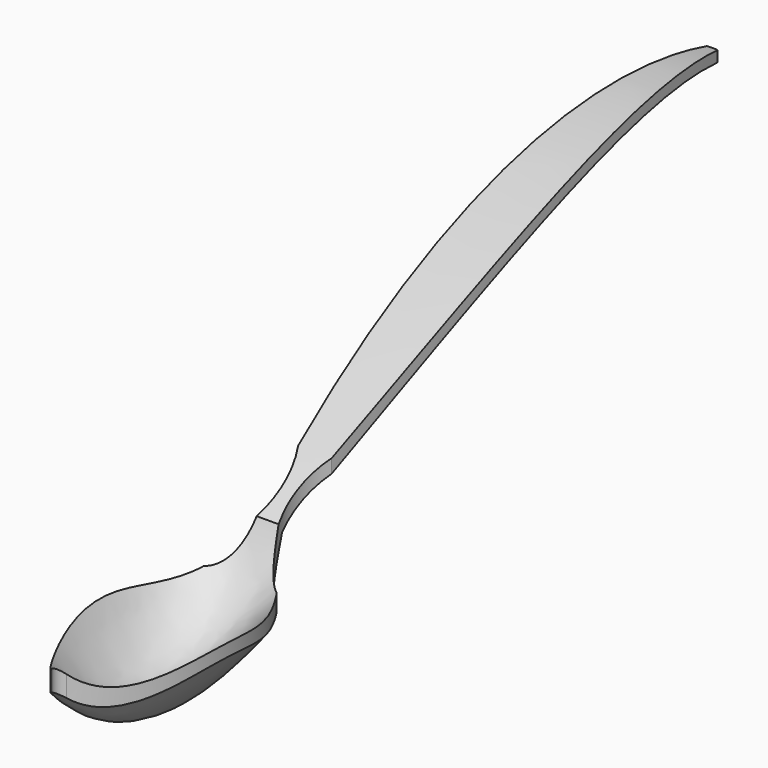
from build123d import *

# Parameters (mm, degrees)
EXTRUDE003_DEPTH = 80


with BuildPart() as extrude003:
    # Sketch005 → Extrude003 (new body)
    with BuildSketch(Plane.XY.offset(56)):
        with BuildLine():
            ThreePointArc((-1.257248, 126.846052), (-6.630881, 69.563727), (-3.880743, 12.095671))
            ThreePointArc((-8.430109, -9.471528), (-1.966283, 0.428417), (-3.880743, 12.095671))
            ThreePointArc((-8.430109, -9.471528), (-14.013962, -36.760649), (-1.716067, -61.753395))
            ThreePointArc((-1.716067, -61.753395), (0, -62.415289), (1.716067, -61.753395))
            ThreePointArc((1.716067, -61.753395), (14.013962, -36.760649), (8.430109, -9.471528))
            ThreePointArc((3.880743, 12.095671), (1.97472, 0.430197), (8.430109, -9.471528))
            ThreePointArc((3.880743, 12.095671), (6.649694, 69.564157), (1.257248, 126.846052))
            ThreePointArc((1.257248, 126.846052), (0, 126.965641), (-1.257248, 126.846052))
        make_face()
    extrude(amount=-EXTRUDE003_DEPTH)


with BuildPart() as common001:
    # Sketch002 → Loft section 0
    with BuildSketch(Plane.YZ.offset(-15)):
        with BuildLine():
            ThreePointArc((-56.485305, 2.198639), (-58.168632, 1.688359), (-57.675258, 0))
            ThreePointArc((-57.675258, 0), (-28.837629, -7.457321), (0, 0))
            add(Edge.make_bspline(
                [(0, 0), (42.23759, 27.563965), (91.892059, 51.91864), (128.407314, 43.484848)],
                knots=[0, 0, 0, 0, 1, 1, 1, 1], degree=3))
            ThreePointArc((128.407314, 43.484848), (129.387159, 44.734848), (128.407314, 45.984848))
            add(Edge.make_bspline(
                [(-0.626922, 2.5), (42.23759, 30.063965), (91.84727, 54.41864), (128.407314, 45.984848)],
                knots=[0, 0, 0, 0, 1, 1, 1, 1], degree=3))
            ThreePointArc((-0.626922, 2.5), (-28.518324, -4.655084), (-56.485305, 2.198639))
        make_face()
    # Sketch003 → Loft section 1
    with BuildSketch(Plane.YZ):
        with BuildLine():
            ThreePointArc((-64.83973, 1.042682), (-66.480817, 1.621814), (-67.111913, 0))
            ThreePointArc((-67.111913, 0), (-33.555956, -22.283915), (0, 0))
            add(Edge.make_bspline(
                [(0, 0), (42.23759, 27.563965), (91.892059, 51.91864), (128.407314, 43.484848)],
                knots=[0, 0, 0, 0, 1, 1, 1, 1], degree=3))
            ThreePointArc((128.407314, 43.484848), (129.387159, 44.734848), (128.407314, 45.984848))
            add(Edge.make_bspline(
                [(-1.587823, 2.5), (42.23759, 30.063965), (91.84727, 54.41864), (128.407314, 45.984848)],
                knots=[0, 0, 0, 0, 1, 1, 1, 1], degree=3))
            ThreePointArc((-1.587823, 2.5), (-32.750953, -18.316585), (-64.83973, 1.042682))
        make_face()
    # Sketch004 → Loft section 2
    with BuildSketch(Plane.YZ.offset(15)):
        with BuildLine():
            ThreePointArc((-56.485305, 2.198639), (-58.168632, 1.688359), (-57.675258, 0))
            ThreePointArc((-57.675258, 0), (-28.837629, -7.457321), (0, 0))
            add(Edge.make_bspline(
                [(0, 0), (42.23759, 27.563965), (91.892059, 51.91864), (128.407314, 43.484848)],
                knots=[0, 0, 0, 0, 1, 1, 1, 1], degree=3))
            ThreePointArc((128.407314, 43.484848), (129.387159, 44.734848), (128.407314, 45.984848))
            add(Edge.make_bspline(
                [(-0.626922, 2.5), (42.23759, 30.063965), (91.84727, 54.41864), (128.407314, 45.984848)],
                knots=[0, 0, 0, 0, 1, 1, 1, 1], degree=3))
            ThreePointArc((-0.626922, 2.5), (-28.518324, -4.655084), (-56.485305, 2.198639))
        make_face()
    loft()

    # Common001: intersect Extrude003
    add(extrude003.part, mode=Mode.INTERSECT)


solid = common001.part
